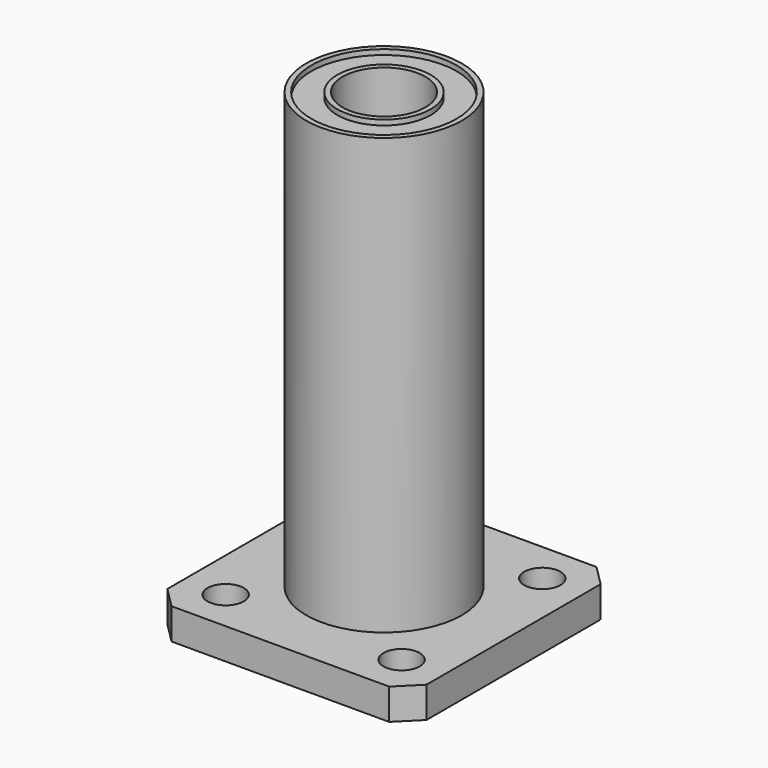
from build123d import *

# Parameters (mm, degrees)
SKETCH_W     = 25
SKETCH_H     = 25
SKETCH_R     = 7.5
SKETCH_R_2   = 1.75
PAD_DEPTH    = 3
SKETCH002_W  = 0.5
SKETCH002_H  = 45
CHAMFER_SIZE = 2


with BuildPart() as part:
    # Sketch → Pad (new body)
    with BuildSketch(Plane.XY):
        Rectangle(SKETCH_W, SKETCH_H)
        Circle(SKETCH_R, mode=Mode.SUBTRACT)
        with Locations((8.485281, 8.485281)):
            Circle(SKETCH_R_2, mode=Mode.SUBTRACT)
        with Locations((-8.485281, 8.485281)):
            Circle(SKETCH_R_2, mode=Mode.SUBTRACT)
        with Locations((8.485281, -8.485281)):
            Circle(SKETCH_R_2, mode=Mode.SUBTRACT)
        with Locations((-8.485281, -8.485281)):
            Circle(SKETCH_R_2, mode=Mode.SUBTRACT)
    extrude(amount=PAD_DEPTH)

    # Sketch001 → Revolution (revolve)
    with BuildSketch(Plane.XZ):
        Polygon((4, 45), (4, 0), (4.5, 0), (4.5, 0.5), (7, 0.5), (7, 44.5), (4.5, 44.5), (4.5, 45), align=None)
    revolve(axis=Axis((0, 0, 0), (0, 0, 1)))

    # Sketch002 → Revolution001 (revolve)
    with BuildSketch(Plane.XZ):
        with Locations((7.25, 22.5)):
            Rectangle(SKETCH002_W, SKETCH002_H)
    revolve(axis=Axis((0, 0, 0), (0, 0, 1)))

    # Chamfer
    chamfer_edges = [part.edges().sort_by_distance(p)[0] for p in [
        (-12.5, -12.5, 1.5),
        (-12.5, 12.5, 1.5),
        (12.5, 12.5, 1.5),
        (12.5, -12.5, 1.5),
    ]]
    chamfer(chamfer_edges, length=CHAMFER_SIZE)


solid = part.part
